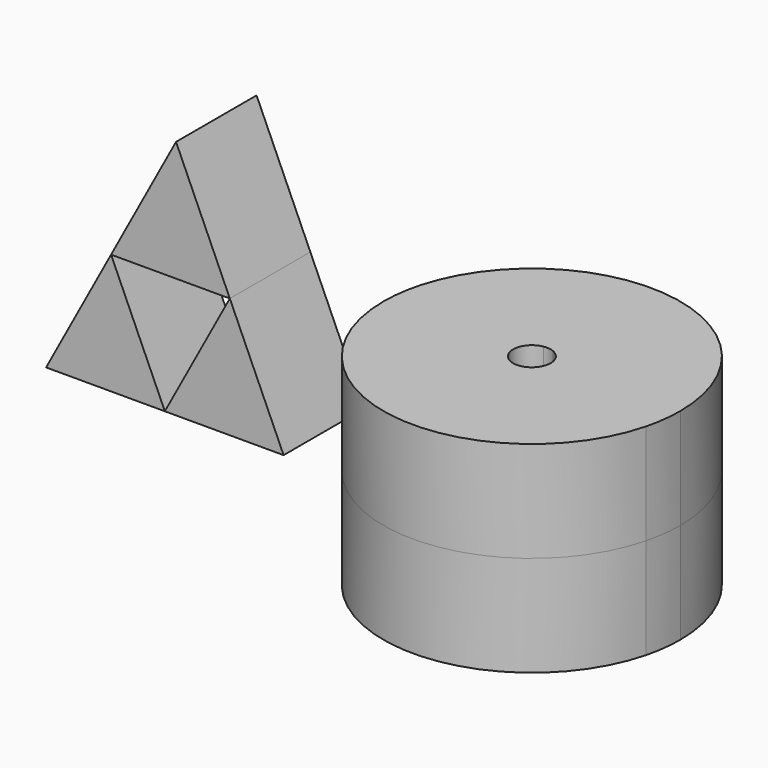
from build123d import *

# Parameters (mm, degrees)
F1_DEPTH = 25.4
F3_DEPTH = 25.4
F4_DEPTH = 25.4


with BuildPart() as f1:
    # F0 (on Front) → F1 (new body)
    with BuildSketch(Plane.XZ):
        Polygon((-31.900562346, 60.7608221471), (-48.2914559543, 30.3804110736), (-18.3296075556, 30.3804110736), align=None)
    extrude(amount=F1_DEPTH)


with BuildPart() as f1b:
    # F0 (on Front) → F1, piece 2 (new body)
    with BuildSketch(Plane.XZ):
        Polygon((-48.2914559543, 30.3804110736), (-64.6823495626, 0), (-34.720501164, 0), align=None)
    extrude(amount=F1_DEPTH)


with BuildPart() as f1c:
    # F0 (on Front) → F1, piece 3 (new body)
    with BuildSketch(Plane.XZ):
        Polygon((-18.3296075556, 30.3804110736), (-34.720501164, 0), (-4.7586527653, 0), align=None)
    extrude(amount=F1_DEPTH)


with BuildPart() as f3:
    # F2 (on Top) → F3 (new body)
    with BuildSketch(Plane.XY):
        with BuildLine():
            Line((37.5477857888, -4.7317177788), (73.8026180842, -9.3746957385))
            ThreePointArc((73.8026180842, -9.3746957385), (74.6957477779, -4.7251142857), (74.9950525109, 0))
            Line((74.9950525109, 0), (39.4438088688, 4.3352335137))
            ThreePointArc((39.4438088688, 4.3352335137), (41.5076215969, 2.5901454613), (42.2795035676, 0))
            ThreePointArc((42.2795035676, 0), (40.8936155168, -3.345829728), (37.5477857888, -4.7317177788))
        make_face()
        with BuildLine():
            ThreePointArc((0.1005212092, -0.0126675377), (32.8289547157, -37.1487606558), (73.8026180842, -9.3746957385))
            Line((73.8026180842, -9.3746957385), (37.5477857888, -4.7317177788))
            ThreePointArc((37.5477857888, -4.7317177788), (36.9561805848, -4.6945879926), (36.3738600322, -4.5837813491))
            Line((36.3738600322, -4.5837813491), (0.1005212092, -0.0126675377))
        make_face()
        with BuildLine():
            Line((39.4438088688, 4.3352335137), (74.9950525109, 0))
            ThreePointArc((74.9950525109, 0), (42.6568707612, 37.0971027939), (1.4946261159, 10.1226213284))
            Line((1.4946261159, 10.1226213284), (36.7491376414, 4.6638304295))
            ThreePointArc((36.7491376414, 4.6638304295), (38.1205439567, 4.6969246555), (39.4438088688, 4.3352335137))
        make_face()
        with BuildLine():
            ThreePointArc((1.4946261159, 10.1226213284), (0.4498193833, 5.1028103566), (0.1005212092, -0.0126675377))
            Line((0.1005212092, -0.0126675377), (36.3738600322, -4.5837813491))
            ThreePointArc((36.3738600322, -4.5837813491), (32.8199593481, 0.1918600657), (36.7491376414, 4.6638304295))
            Line((36.7491376414, 4.6638304295), (1.4946261159, 10.1226213284))
        make_face()
    extrude(amount=F3_DEPTH)

    # F4 (add): a face of the model
    f4_faces = [f3.faces().sort_by_distance(p)[0] for p in [
        (72.5812081141, -9.836310361, 0),
    ]]
    extrude(f4_faces, amount=F4_DEPTH)


solid = Compound([f1.part, f1b.part, f1c.part, f3.part])
